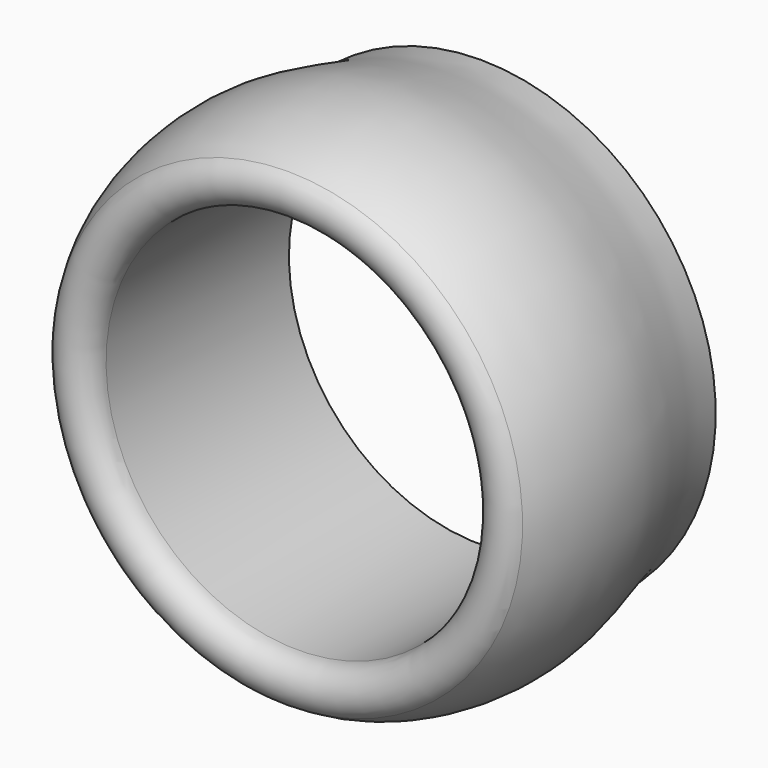
from build123d import *


with BuildPart() as f2:
    # F0 (on Right) → F2 (revolve)
    with BuildSketch(Plane.YZ):
        with BuildLine():
            ThreePointArc((-50.3408515139, 49), (-52.349267725, 43.4987443266), (-47.6528501756, 40))
            Line((-47.6528501756, 40), (0, 40))
            Line((0, 40), (0, 49))
            add(Edge.make_bspline(
                [(-50.3408515139, 49), (-44.4100338174, 52.8896400179), (-23.7883211446, 57.0578827131), (-8.2488203013, 49.0199309113), (0, 49)],
                knots=[0, 0, 0, 0, 0.2514417234, 0.5012508991, 0.5012508991, 0.5012508991, 0.5012508991], degree=3))
        make_face()
    revolve(axis=Axis((0, -33.7953642011, 0), (0, -1, 0)))


solid = f2.part
